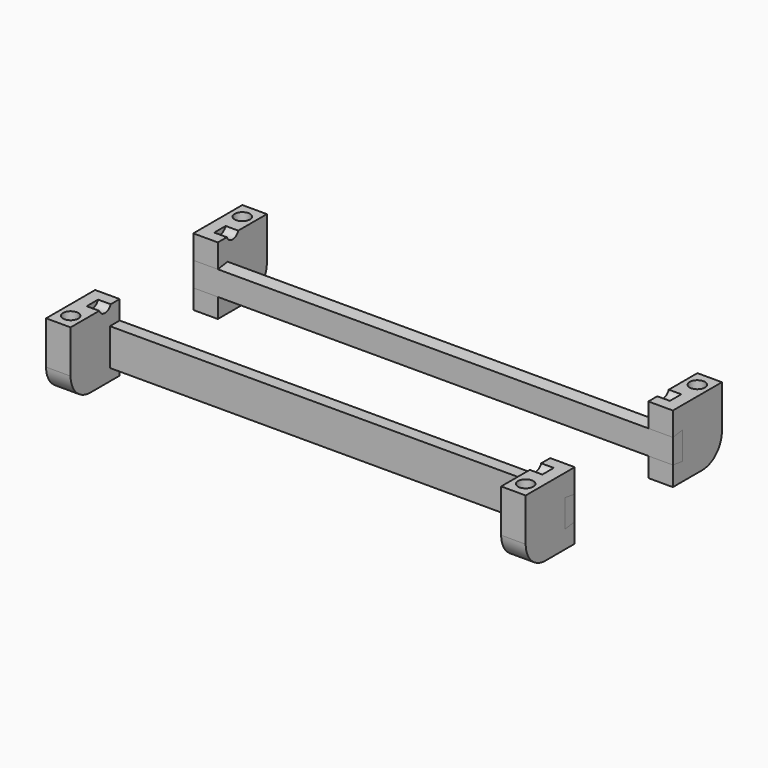
from build123d import *

# Parameters (mm, degrees)
F1_DEPTH       = 40
F2_R           = 12.5
F3_DEPTH       = 75
F4_R           = 12.5
F5_DEPTH       = 20.5
F7_DEPTH       = 40.001
F10_DEPTH      = 782
F14_W          = 702
F14_H          = 20
F15_DEPTH      = 55
F15_DEPTH_BACK = 5


with BuildPart() as f1:
    # F0 (on Right) → F1 (new body)
    with BuildSketch(Plane.YZ):
        with BuildLine():
            Line((0, 110), (0, 0))
            Line((0, 0), (60, 0))
            ThreePointArc((60, 0), (88.2842712475, 11.7157287525), (100, 40))
            Line((100, 40), (100, 110))
            Line((100, 110), (0, 110))
        make_face()
    extrude(amount=F1_DEPTH)

    # F2 (on face) → F3 (cut)
    with BuildSketch(Plane.XY.offset(110)):
        with Locations((20, 75)):
            Circle(F2_R)
    extrude(amount=-F3_DEPTH, mode=Mode.SUBTRACT)

    # F4 (on face) → F5 (cut)
    with BuildSketch(Plane(origin=(0, 0, 0), x_dir=(0, -1, 0), z_dir=(-1, 0, 0))):
        with Locations((-30, 114.5)):
            Circle(F4_R)
    extrude(amount=-F5_DEPTH, mode=Mode.SUBTRACT)

    # F6 (on face) → F7 (cut, through all)
    with BuildSketch(Plane.YZ.offset(40)):
        Polygon((20, 74.2220271416), (0, 71.4112104475), (0, 56.4112104475), (0, 31.7791700363), (20, 28.9683533423), (20, 46.7791700363), (20, 56.4112104475), align=None)
    extrude(amount=-F7_DEPTH, mode=Mode.SUBTRACT)


with BuildPart() as f9_1:
    # F9: instance of F1
    add(f1.part.mirror(Plane.YZ.offset(-351)))


with BuildPart() as f10:
    # F6 (on face) → F10 (new body)
    with BuildSketch(Plane.YZ.offset(40)):
        Polygon((20, 74.2220271416), (0, 71.4112104475), (0, 56.4112104475), (0, 31.7791700363), (20, 28.9683533423), (20, 46.7791700363), (20, 56.4112104475), align=None)
    extrude(amount=-F10_DEPTH)


with BuildPart() as f12_1:
    # F12: instance of F1
    add(f1.part.mirror(Plane.XZ.offset(100)))


with BuildPart() as f12_2:
    # F12: instance of F10
    add(f10.part.mirror(Plane.XZ.offset(100)))

    # F14 (on plane+point) → F15 (join, two sides)
    with BuildSketch(Plane.XY.offset(74.2220271416)) as f15_sk:
        with Locations((-351, -210)):
            Rectangle(F14_W, F14_H)
    extrude(amount=-F15_DEPTH)
    extrude(f15_sk.sketch, amount=F15_DEPTH_BACK)


with BuildPart() as f12_3:
    # F12: instance of F9_1
    add(f9_1.part.mirror(Plane.XZ.offset(100)))


solid = Compound([f1.part, f9_1.part, f10.part, f12_1.part, f12_2.part, f12_3.part])
